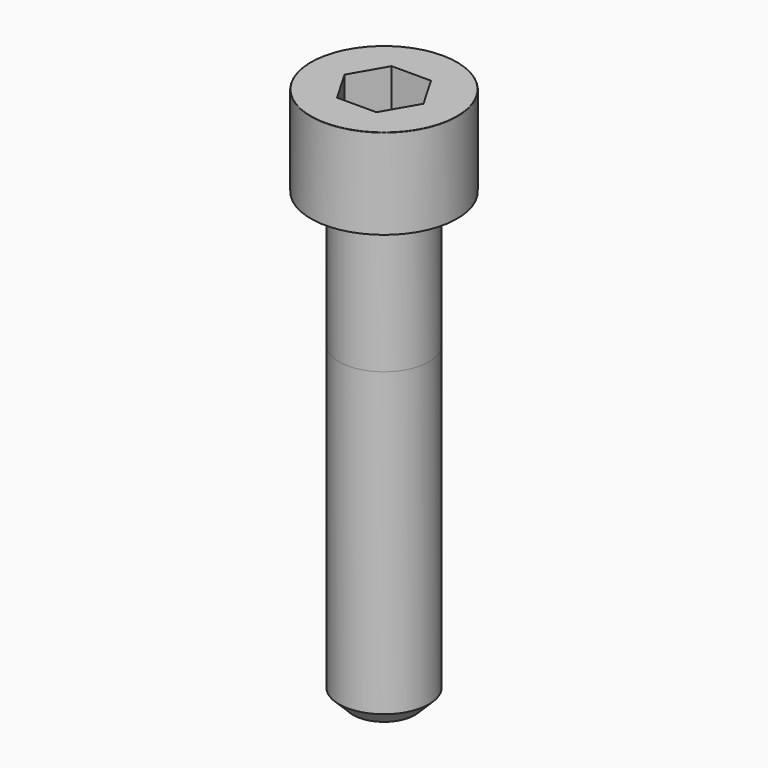
from build123d import *

# Parameters (mm, degrees)
POCKET_DEPTH = 6.06


with BuildPart() as part:
    # Sketch → Revolve (revolve)
    with BuildSketch(Plane.YZ):
        with BuildLine():
            Line((3.999, 0), (6.5, 0))
            Line((6.5, 0), (6.5, 7.97229))
            ThreePointArc((6.5, 7.97229), (6.491884, 7.991884), (6.47229, 8))
            Line((6.47229, 8), (0, 8))
            Line((0, -40), (0, 8))
            Line((2.75, -40), (0, -40))
            Line((4, -38.75), (2.75, -40))
            Line((4, -12), (4, -38.75))
            Line((3.999, 0), (4, -12))
        make_face()
    revolve(axis=Axis((0, 0, 0), (0, 0, 1)))

    # Sketch001 → Pocket (cut)
    with BuildSketch(Plane.XY.offset(8)):
        Polygon((3.498743, 0), (1.749371, 3.03), (-1.749371, 3.03), (-3.498743, 0), (-1.749371, -3.03), (1.749371, -3.03), align=None)
    extrude(amount=-POCKET_DEPTH, mode=Mode.SUBTRACT)


solid = part.part
